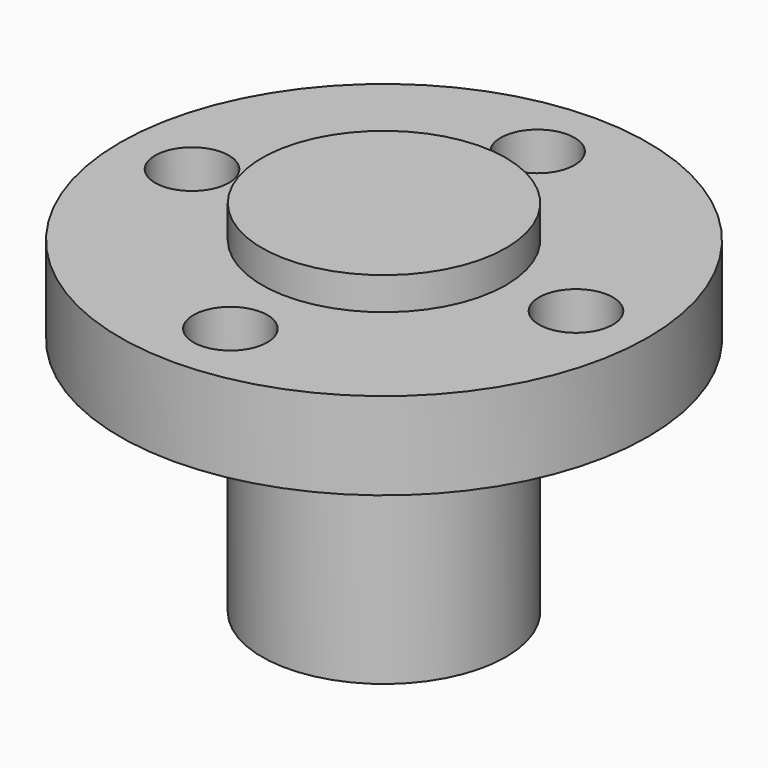
from build123d import *

# Parameters (mm, degrees)
CYLINDER001_R      = 5.085
CYLINDER001_DEPTH  = 15
CYLINDER_R         = 11
CYLINDER_DEPTH     = 3.64
SKETCH_R           = 1.541271
POCKET_DEPTH       = 66.290808
POLARPATTERN_COUNT = 4


with BuildPart() as cylinder001:
    # Cylinder001 → Cylinder001 (new body)
    with BuildSketch(Plane.XY.offset(-10)):
        Circle(CYLINDER001_R)
    extrude(amount=CYLINDER001_DEPTH)


with BuildPart() as polarpattern:
    # Cylinder → Cylinder (new body)
    with BuildSketch(Plane.XY):
        Circle(CYLINDER_R)
    extrude(amount=CYLINDER_DEPTH)

    # Sketch → Pocket (cut, through all)
    with BuildSketch(Plane.XY.offset(3.64)):
        with Locations((0, -8)):
            Circle(SKETCH_R)
    pocket = extrude(amount=-POCKET_DEPTH, mode=Mode.SUBTRACT)

    # PolarPattern: Pocket ×4 about axis
    polarpattern_axis = Axis((0, 0, 3.64), (0, 0, 1))
    for i in range(1, POLARPATTERN_COUNT):
        add(pocket.rotate(polarpattern_axis, i * 360 / POLARPATTERN_COUNT), mode=Mode.SUBTRACT)


solid = Compound([cylinder001.part, polarpattern.part])
